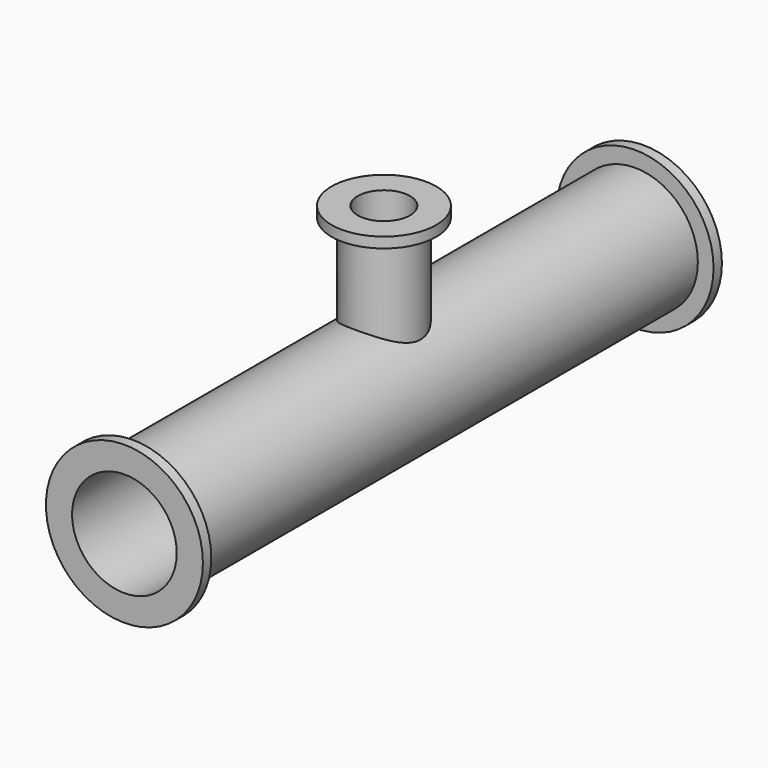
from build123d import *

# Parameters (mm, degrees)
F0_R          = 15.24
F0_R_2        = 12.7
F1_DEPTH      = 157.48
F0_R_3        = 19.05
F2_DEPTH      = 2.54
F3_R          = 19.05
F3_R_2        = 15.24
F4_DEPTH      = 2.54
F6_R          = 8.89
F6_R_2        = 6.35
F7_DEPTH      = 25.4
F7_DEPTH_BACK = 12.7
F8_R          = 12.7
F8_R_2        = 8.89
F9_DEPTH      = 2.54
F10_DEPTH     = 101.6
F8_R_3        = 6.35
F11_DEPTH     = 38.1


with BuildPart() as f1:
    # F0 (on Front) → F1 (new body)
    with BuildSketch(Plane.XZ):
        Circle(F0_R)
        Circle(F0_R_2, mode=Mode.SUBTRACT)
    extrude(amount=F1_DEPTH)

    # F0 (on Front) → F2 (join)
    with BuildSketch(Plane.XZ):
        Circle(F0_R_3)
        Circle(F0_R, mode=Mode.SUBTRACT)
    extrude(amount=F2_DEPTH)

    # F3 (on face) → F4 (join)
    with BuildSketch(Plane.XZ.offset(157.48)):
        Circle(F3_R)
        Circle(F3_R_2, mode=Mode.SUBTRACT)
    extrude(amount=-F4_DEPTH)

    # F6 (on offset) → F7 (join, two sides)
    with BuildSketch(Plane.XY.offset(25.4)) as f7_sk:
        with Locations((0, -78.74)):
            Circle(F6_R)
        with Locations((0, -78.74)):
            Circle(F6_R_2, mode=Mode.SUBTRACT)
    extrude(amount=-F7_DEPTH)
    extrude(f7_sk.sketch, amount=F7_DEPTH_BACK)

    # F8 (on face) → F9 (join)
    with BuildSketch(Plane.XY.offset(38.1)):
        with Locations((0, -78.74)):
            Circle(F8_R)
        with Locations((0, -78.74)):
            Circle(F8_R_2, mode=Mode.SUBTRACT)
    extrude(amount=-F9_DEPTH)

    # F0 (on Front) → F10 (cut)
    with BuildSketch(Plane.XZ):
        Circle(F0_R_2)
    extrude(amount=F10_DEPTH, mode=Mode.SUBTRACT)

    # F8 (on face) → F11 (cut)
    with BuildSketch(Plane.XY.offset(38.1)):
        with Locations((0, -78.74)):
            Circle(F8_R_3)
    extrude(amount=-F11_DEPTH, mode=Mode.SUBTRACT)


solid = f1.part
